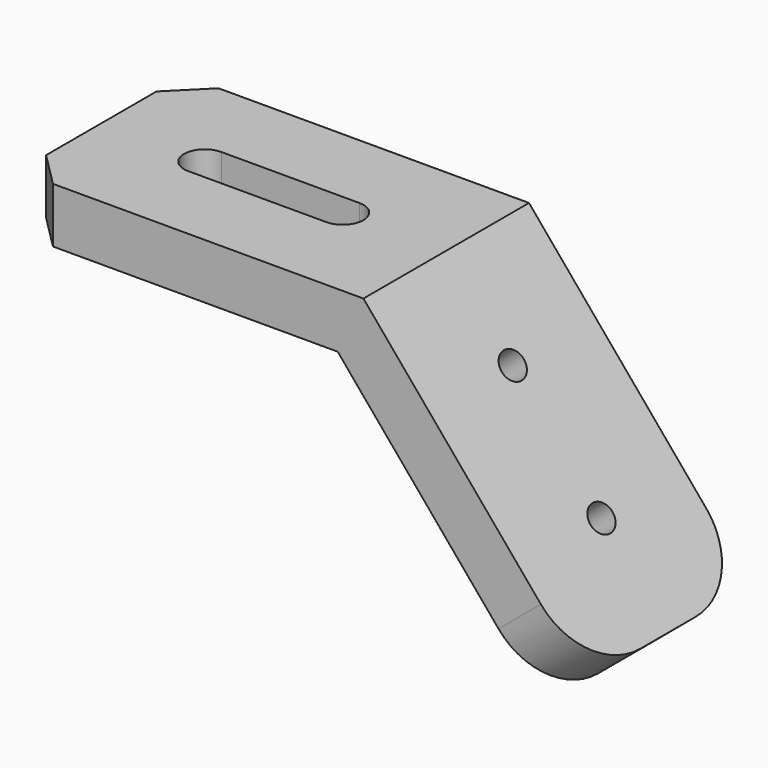
from build123d import *

# Parameters (mm, degrees)
F1_DEPTH = 15
F3_DEPTH = 43.4455230334
F5_D     = 4
F6_R     = 10
F7_SIZE  = 5


with BuildPart() as f1:
    # F0 (on Front) → F1 (new body, symmetric)
    with BuildSketch(Plane.XZ):
        Polygon((0, 8), (0, 0), (46.2695387348, 0), (76.0110249394, -35.4445230334), (82.1393804843, -30.3022221559), (50, 8), align=None)
    extrude(amount=F1_DEPTH, both=True)

    # F2 (on face) → F3 (cut, through all)
    with BuildSketch(Plane.XY.offset(8)):
        with BuildLine():
            ThreePointArc((15, 3), (12, 0), (15, -3))
            Line((15, -3), (35, -3))
            ThreePointArc((35, -3), (38, 0), (35, 3))
            Line((35, 3), (15, 3))
        make_face()
    extrude(amount=-F3_DEPTH, mode=Mode.SUBTRACT)

    # F5 (through all)
    with Locations(Plane(origin=(33.2804354537, 0, 27.9256011146), x_dir=(0, 1, 0), z_dir=(0.7660444431, 0, 0.6427876097))):
        with Locations((0, -41.0110249394), (0, -61.0110249394)):
            Hole(F5_D / 2)

    # F6
    f6_edges = [f1.edges().sort_by_distance(p)[0] for p in [
        (79.075203, -15, -32.873373),
        (79.075203, 15, -32.873373),
    ]]
    fillet(f6_edges, radius=F6_R)

    # F7
    f7_edges = [f1.edges().sort_by_distance(p)[0] for p in [
        (0, -15, 4),
        (0, 15, 4),
    ]]
    chamfer(f7_edges, length=F7_SIZE)


solid = f1.part
